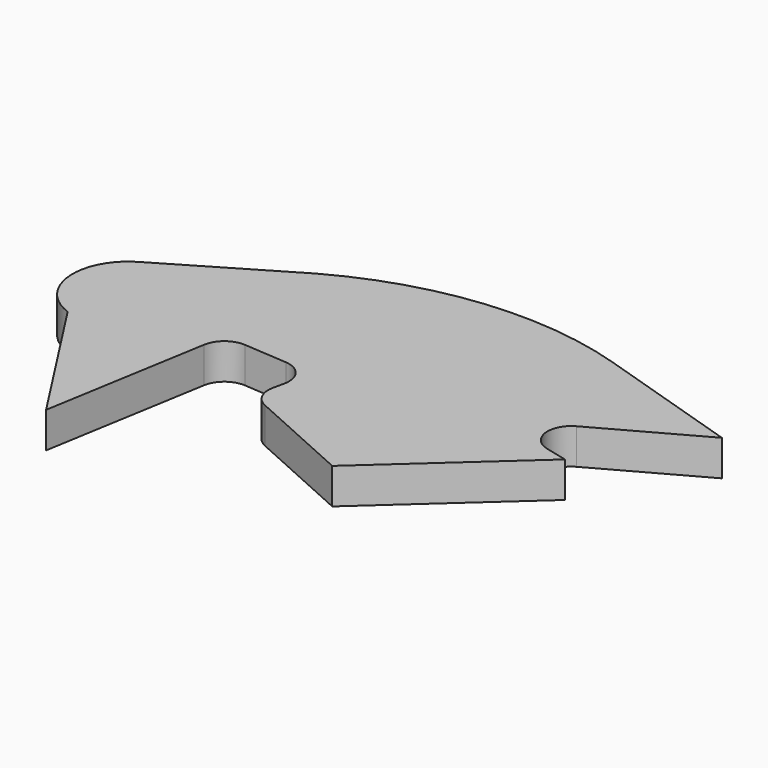
from build123d import *

# Parameters (mm, degrees)
PAD_DEPTH = 3
FILLET_R  = 2


with BuildPart() as part:
    # Sketch → Pad (new body)
    with BuildSketch(Plane.XY):
        with BuildLine():
            Line((-15.560135, 12.975312), (-25.739783, 6.963025))
            ThreePointArc((-25.739783, 6.963025), (-28.010173, 2.501983), (-24.932128, -1.44532))
            Line((-24.932128, -1.44532), (-17.320507, -13.22905))
            Line((-17.320507, -13.22905), (-14.701975, 2.263941))
            Line((-14.701975, 2.263941), (-6.95548, 1.718414))
            Line((-6.95548, 1.718414), (-7.991983, -3.082232))
            Line((-7.991983, -3.082232), (2.318496, -7.719219))
            Line((2.318496, -7.719219), (13.665469, 2.536705))
            Line((13.665469, 2.536705), (6.846373, 4.227841))
            Line((6.846373, 4.227841), (19.792001, 11.370732))
            Line((19.792001, 11.370732), (7.520889, 15.262908))
            ThreePointArc((7.520889, 15.262908), (-4.255017, 16.494155), (-15.560135, 12.975312))
        make_face()
    extrude(amount=PAD_DEPTH)

    # Fillet
    fillet_edges = [part.edges().sort_by_distance(p)[0] for p in [
        (-14.701975, 2.263941, 1.5),
        (-6.95548, 1.718414, 1.5),
        (-7.991983, -3.082232, 1.5),
        (6.846373, 4.227841, 1.5),
    ]]
    fillet(fillet_edges, radius=FILLET_R)


solid = part.part
